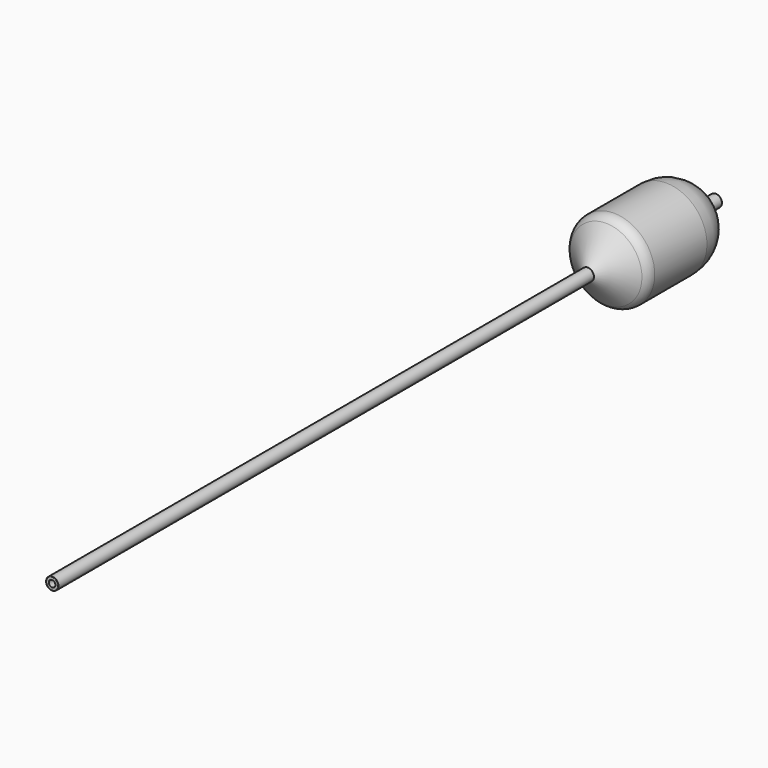
from build123d import *

# Parameters (mm, degrees)
F0_R      = 1.905
F0_R_2    = 1.016
F1_DEPTH  = 254
F2_SIZE   = 0.5588
F3_R      = 0.127
F4_R      = 0.127
F12_R     = 2.474941
F12_R_2   = 2.083201
F13_DEPTH = 11.02868


with BuildPart() as f1:
    # F0 (on Front) → F1 (new body)
    with BuildSketch(Plane.XZ):
        Circle(F0_R)
        Circle(F0_R_2, mode=Mode.SUBTRACT)
    extrude(amount=F1_DEPTH)

    # F2
    f2_edges = [f1.edges().sort_by_distance(p)[0] for p in [
        (-1.016, 0, 0),
    ]]
    chamfer(f2_edges, length=F2_SIZE)

    # F3
    f3_edges = [f1.edges().sort_by_distance(p)[0] for p in [
        (-1.905, 0, 0),
    ]]
    fillet(f3_edges, radius=F3_R)

    # F4
    f4_edges = [f1.edges().sort_by_distance(p)[0] for p in [
        (-1.905, -254, 0),
    ]]
    fillet(f4_edges, radius=F4_R)


with BuildPart() as f7:
    # F6 (on Right) → F7 (revolve)
    with BuildSketch(Plane.YZ):
        with BuildLine():
            Line((-42.062655, 11.009148), (-49.0474, 1.905))
            Line((-49.0474, 1.905), (-49.015386, 1.905))
            Line((-49.015386, 1.905), (-42.050128, 10.983748))
            ThreePointArc((-42.050128, 10.983748), (-40.712524, 12.08162), (-39.027273, 12.4746))
            Line((-39.027273, 12.4746), (-19.05, 12.4746))
            ThreePointArc((-19.05, 12.4746), (-10.798304, 9.485459), (-6.3754, 1.905))
            Line((-6.3754, 1.905), (-6.35, 1.905))
            ThreePointArc((-6.35, 1.905), (-10.780417, 9.503463), (-19.05, 12.5))
            Line((-19.05, 12.5), (-39.0398, 12.5))
            ThreePointArc((-39.0398, 12.5), (-40.725051, 12.10702), (-42.062655, 11.009148))
        make_face()
    revolve(axis=Axis((0, -159.145489, 0), (0, -1, 0)))


with BuildPart() as f13:
    # F12 (on offset) → F13 (new body, through all)
    with BuildSketch(Plane.XZ.offset(20.41652)):
        Circle(F12_R)
        Circle(F12_R_2, mode=Mode.SUBTRACT)
    extrude(amount=F13_DEPTH)


solid = Compound([f1.part, f7.part, f13.part])
